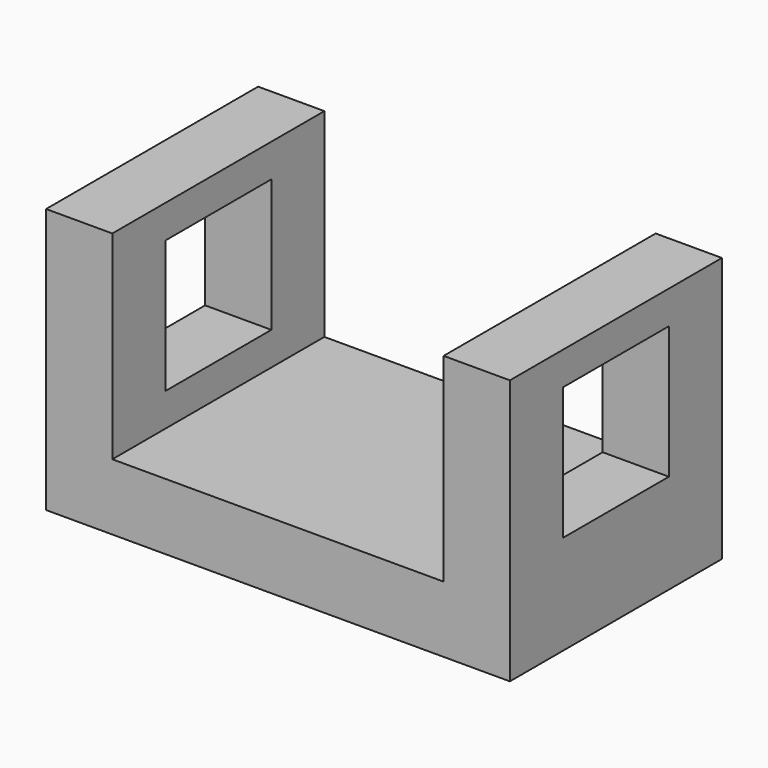
from build123d import *

# Parameters (mm, degrees)
F1_DEPTH = 50.8
F3_W     = 25.4
F3_H     = 25.4
F4_DEPTH = 25.4
F5_W     = 25.4
F5_H     = 25.4
F6_DEPTH = 25.4


with BuildPart() as f1:
    # F0 (on Front) → F1 (new body)
    with BuildSketch(Plane.XZ):
        Polygon((-38.95836, 38.1), (-51.65836, 38.1), (-51.65836, -12.7), (37.24164, -12.7), (37.24164, 38.1), (24.54164, 38.1), (24.54164, 0), (-38.95836, 0), align=None)
    extrude(amount=F1_DEPTH)

    # F3 (on face) → F4 (cut)
    with BuildSketch(Plane.YZ.offset(37.24164)):
        with Locations((-25.4, 19.05)):
            Rectangle(F3_W, F3_H)
    extrude(amount=-F4_DEPTH, mode=Mode.SUBTRACT)

    # F5 (on face) → F6 (cut)
    with BuildSketch(Plane(origin=(-51.65836, 0, 0), x_dir=(0, -1, 0), z_dir=(-1, 0, 0))):
        with Locations((25.4, 19.05)):
            Rectangle(F5_W, F5_H)
    extrude(amount=-F6_DEPTH, mode=Mode.SUBTRACT)


solid = f1.part
